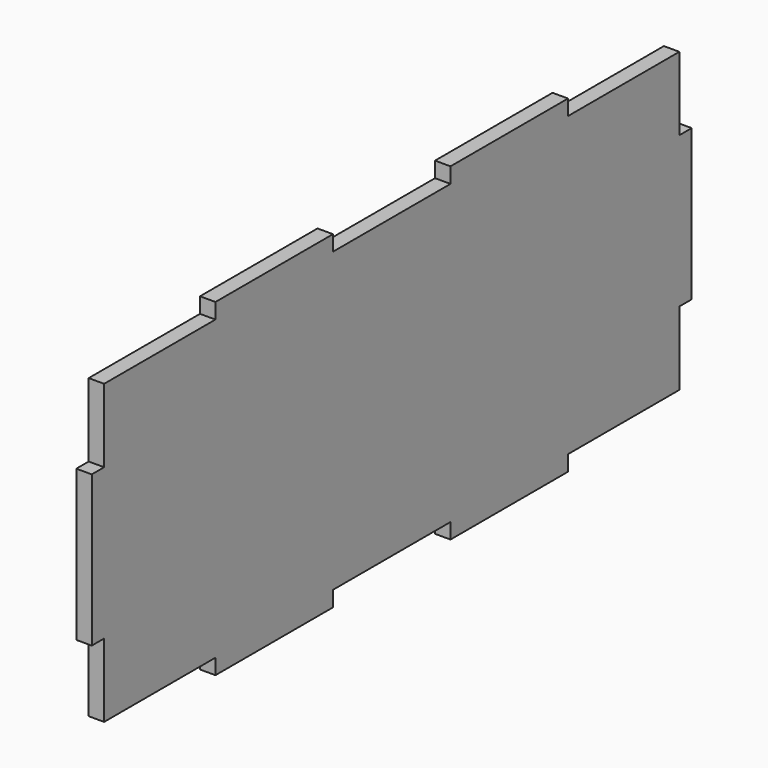
from build123d import *

# Parameters (mm, degrees)
F1_DEPTH = 4


with BuildPart() as f1:
    # F0 (on Right) → F1 (new body)
    with BuildSketch(Plane.YZ):
        Polygon((40, 4), (40, 0), (78, 0), (78, 4), (116, 4), (116, 0), (154, 0), (154, 4), (190, 4), (190, 23), (194, 23), (194, 62), (190, 62), (190, 81), (154, 81), (154, 85), (116, 85), (116, 81), (78, 81), (78, 85), (40, 85), (40, 81), (4, 81), (4, 62), (0, 62), (0, 23), (4, 23), (4, 4), align=None)
    extrude(amount=F1_DEPTH)


solid = f1.part
